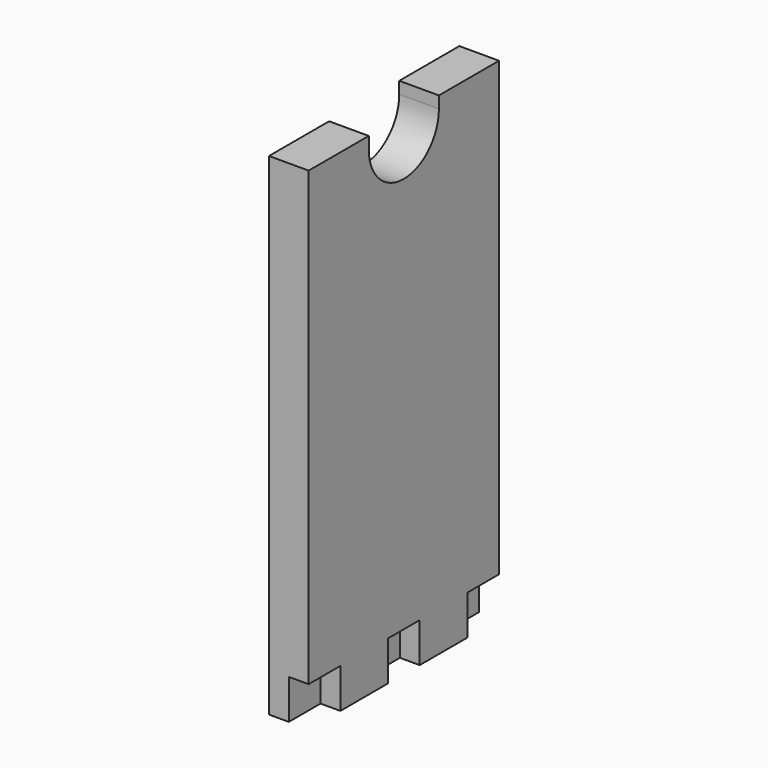
from build123d import *

# Parameters (mm, degrees)
F0_W     = 10
F0_H     = 124
F1_DEPTH = 30
F3_DEPTH = 10
F4_W     = 10
F4_H     = 10
F5_DEPTH = 5


with BuildPart() as f1:
    # F0 (on Front) → F1 (new body, symmetric)
    with BuildSketch(Plane.XZ):
        Rectangle(F0_W, F0_H)
    extrude(amount=F1_DEPTH, both=True)

    # F2 (on face) → F3 (cut)
    with BuildSketch(Plane.YZ.offset(5)):
        with BuildLine():
            Line((-11.05, 62), (-11.05, 59))
            ThreePointArc((-11.05, 59), (0, 47.95), (11.05, 59))
            Line((11.05, 59), (11.05, 62))
            Line((11.05, 62), (-11.05, 62))
        make_face()
    extrude(amount=-F3_DEPTH, mode=Mode.SUBTRACT)

    # F4 (on face) → F5 (cut)
    with BuildSketch(Plane.YZ.offset(5)):
        with Locations((-25, -57)):
            Rectangle(F4_W, F4_H)
        with Locations((25, -57)):
            Rectangle(F4_W, F4_H)
        with Locations((0, -57)):
            Rectangle(F4_W, F4_H)
    extrude(amount=-F5_DEPTH, mode=Mode.SUBTRACT)


solid = f1.part
